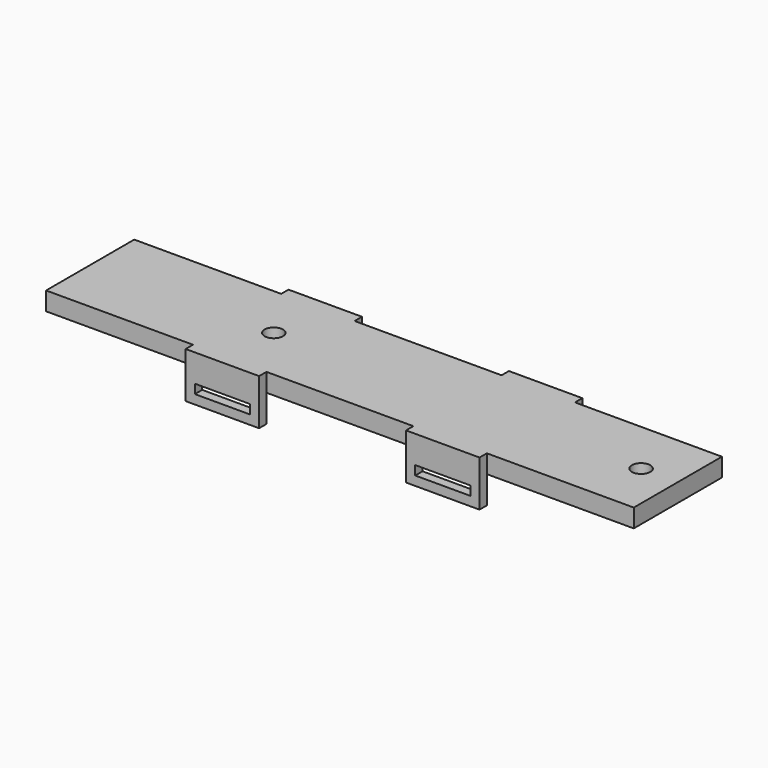
from build123d import *

# Parameters (mm, degrees)
F0_W      = 406.4
F0_H      = 76.2
F1_DEPTH  = 6.35
F2_W      = 50.8
F2_H      = 25.4
F3_DEPTH  = 6.35
F4_W      = 50.8
F4_H      = 25.4
F5_DEPTH  = 6.35
F7_W      = 38.1
F7_H      = 6.35
F6_W      = 38.1
F6_H      = 6.35
F8_DEPTH  = 88.901
F10_DEPTH = 6.35
F12_D     = 12.7


with BuildPart() as f1:
    # F0 (on Top) → F1 (new body)
    with BuildSketch(Plane.XY):
        Rectangle(F0_W, F0_H)
    extrude(amount=F1_DEPTH)

    # F2 (on face) → F3 (join)
    with BuildSketch(Plane.XZ.offset(38.1)):
        with Locations((76.2, -6.35)):
            Rectangle(F2_W, F2_H)
        with Locations((-76.2, -6.35)):
            Rectangle(F2_W, F2_H)
    extrude(amount=F3_DEPTH)

    # F4 (on face) → F5 (join)
    with BuildSketch(Plane(origin=(0, 38.1, 0), x_dir=(-1, 0, 0), z_dir=(0, 1, 0))):
        with Locations((-76.2, -6.35)):
            Rectangle(F4_W, F4_H)
        with Locations((76.2, -6.35)):
            Rectangle(F4_W, F4_H)
    extrude(amount=F5_DEPTH)

    # F7 (on face) + F6 (on face) → F8 (cut, through all)
    with BuildSketch(Plane(origin=(0, 44.45, 0), x_dir=(-1, 0, 0), z_dir=(0, 1, 0))):
        with Locations((76.2, -9.525)):
            Rectangle(F7_W, F7_H)
    with BuildSketch(Plane(origin=(0, 44.45, 0), x_dir=(-1, 0, 0), z_dir=(0, 1, 0))):
        with Locations((-76.2, -9.525)):
            Rectangle(F6_W, F6_H)
    extrude(amount=-F8_DEPTH, mode=Mode.SUBTRACT)

    # F9 (on face) → F10 (join)
    with BuildSketch(Plane.XY.offset(6.35)):
        Polygon((-101.6, 38.1), (-203.2, 38.1), (-203.2, -38.1), (-101.6, -38.1), (-101.6, -44.45), (-50.8, -44.45), (-50.8, -38.1), (50.8, -38.1), (50.8, -44.45), (101.6, -44.45), (101.6, -38.1), (203.2, -38.1), (203.2, 38.1), (101.6, 38.1), (101.6, 44.45), (50.8, 44.45), (50.8, 38.1), (-50.8, 38.1), (-50.8, 44.45), (-101.6, 44.45), align=None)
    extrude(amount=F10_DEPTH)

    # F12 (through all)
    with Locations(Plane.XY.offset(12.7)):
        with Locations((177.8, 0), (-76.2, 0)):
            Hole(F12_D / 2)


solid = f1.part
